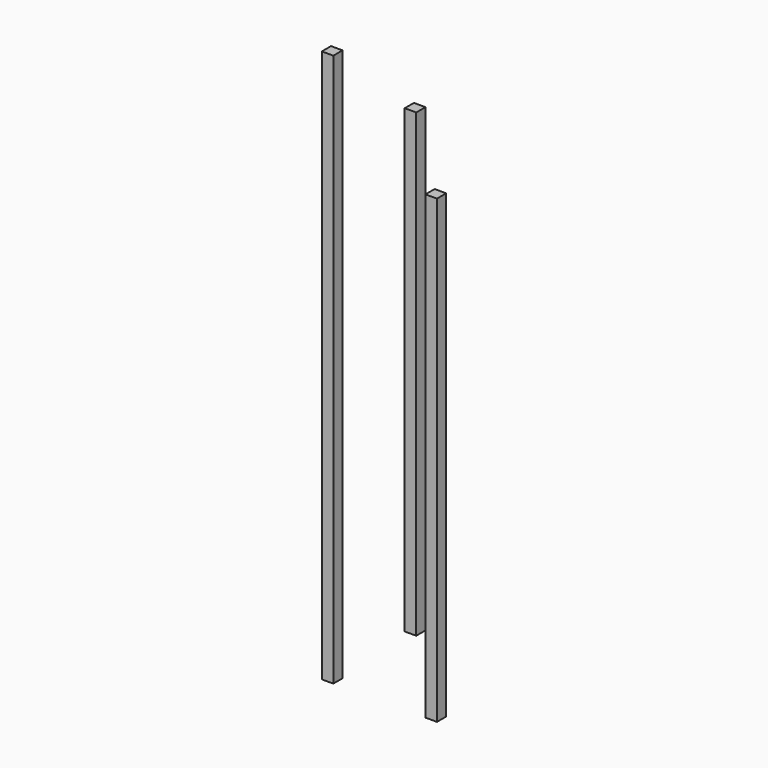
from build123d import *

# Parameters (mm, degrees)
F0_W     = 38.1
F0_H     = 38.1
F1_DEPTH = 1828.8
F2_DEPTH = 1524


with BuildPart() as f1:
    # F0 (on Top) → F1 (new body)
    with BuildSketch(Plane.XY):
        with Locations((19.05, 19.05)):
            Rectangle(F0_W, F0_H)
    extrude(amount=F1_DEPTH)


with BuildPart() as f2:
    # F0 (on Top) → F2 (new body)
    with BuildSketch(Plane.XY):
        with Locations((19.05, 361.95)):
            Rectangle(F0_W, F0_H)
        with Locations((361.95, 19.05)):
            Rectangle(F0_W, F0_H)
    extrude(amount=F2_DEPTH)


solid = Compound([f1.part, f2.part])
